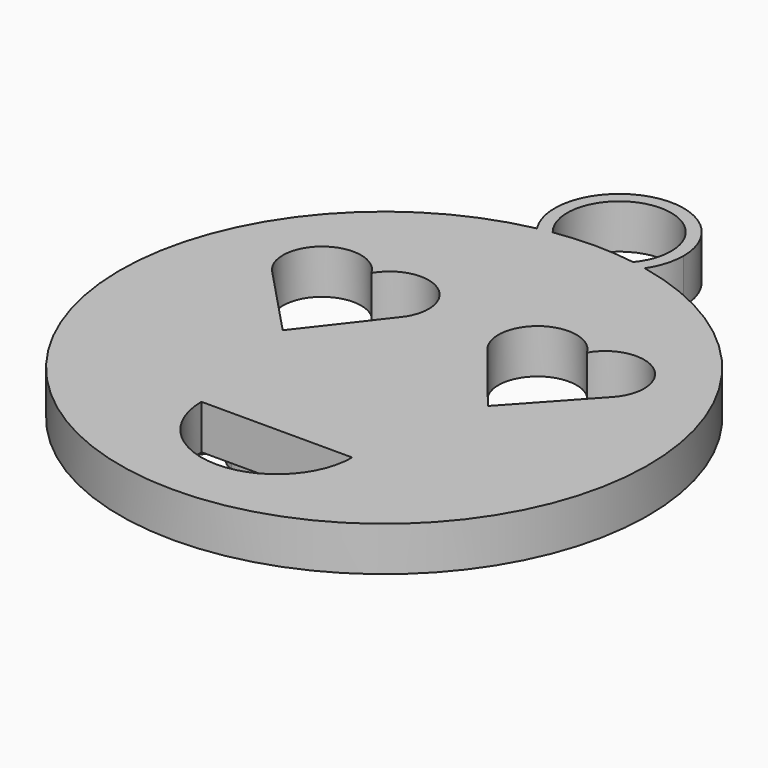
from build123d import *

# Parameters (mm, degrees)
F0_R     = 31.75
F1_DEPTH = 5.334
F2_DEPTH = 9.7028
F4_DEPTH = 5.334
F6_DEPTH = 1.524


with BuildPart() as f1:
    # F0 (on Top) → F1 (new body)
    with BuildSketch(Plane.XY):
        Circle(F0_R)
        with BuildLine():
            ThreePointArc((-9.0672595882, -16.1271095276), (0, -7.0598499394), (9.0672595882, -16.1271095276))
            ThreePointArc((9.0672595882, -16.1271095276), (0, -25.1943691158), (-9.0672595882, -16.1271095276))
        make_face(mode=Mode.SUBTRACT)
        with BuildLine():
            ThreePointArc((-20.4319821381, 8.70917251), (-19.8307143753, 15.7022049417), (-12.954, 14.2969203039))
            ThreePointArc((-12.954, 14.2969203039), (-7.6685531121, 16.4754738016), (-4.191, 11.938))
            ThreePointArc((-4.191, 11.938), (-4.4439261782, 10.4171355842), (-5.1754769403, 9.0599938431))
            Line((-5.1754769403, 9.0599938431), (-12.19514478, 0))
            Line((-12.19514478, 0), (-20.4319821381, 8.70917251))
        make_face(mode=Mode.SUBTRACT)
        with BuildLine():
            ThreePointArc((21.717, 11.938), (21.3983903358, 10.2371821067), (20.4857671818, 8.7670077621))
            Line((20.4857671818, 8.7670077621), (12.4690486118, 0))
            Line((12.4690486118, 0), (5.2299045965, 8.9910859128))
            ThreePointArc((5.2299045965, 8.9910859128), (6.229407138, 15.8112217369), (12.954, 14.2969203039))
            ThreePointArc((12.954, 14.2969203039), (18.2394468879, 16.4754738016), (21.717, 11.938))
        make_face(mode=Mode.SUBTRACT)
        with BuildLine():
            ThreePointArc((-5.1754769403, 9.0599938431), (-9.2028834666, 7.2494282626), (-12.954, 9.5790796961))
            ThreePointArc((-12.954, 9.5790796961), (-16.4750309094, 7.2704754348), (-20.4319821381, 8.70917251))
            Line((-20.4319821381, 8.70917251), (-12.19514478, 0))
            Line((-12.19514478, 0), (-5.1754769403, 9.0599938431))
        make_face()
        with BuildLine():
            ThreePointArc((-12.954, 9.5790796961), (-13.589, 11.938), (-12.954, 14.2969203039))
            ThreePointArc((-12.954, 14.2969203039), (-19.8307143753, 15.7022049417), (-20.4319821381, 8.70917251))
            ThreePointArc((-20.4319821381, 8.70917251), (-16.4750309094, 7.2704754348), (-12.954, 9.5790796961))
        make_face()
        with BuildLine():
            ThreePointArc((5.2299045965, 8.9910859128), (9.2466775898, 7.2525563607), (12.954, 9.5790796961))
            ThreePointArc((12.954, 9.5790796961), (12.319, 11.938), (12.954, 14.2969203039))
            ThreePointArc((12.954, 14.2969203039), (6.229407138, 15.8112217369), (5.2299045965, 8.9910859128))
        make_face()
        with BuildLine():
            Line((12.4690486118, 0), (20.4857671818, 8.7670077621))
            ThreePointArc((20.4857671818, 8.7670077621), (16.5142752737, 7.2660772267), (12.954, 9.5790796961))
            ThreePointArc((12.954, 9.5790796961), (9.2466775898, 7.2525563607), (5.2299045965, 8.9910859128))
            Line((5.2299045965, 8.9910859128), (12.4690486118, 0))
        make_face()
        with BuildLine():
            ThreePointArc((-12.954, 14.2969203039), (-12.4805261984, 13.1594468879), (-12.319, 11.938))
            ThreePointArc((-12.319, 11.938), (-12.4805261984, 10.7165531121), (-12.954, 9.5790796961))
            ThreePointArc((-12.954, 9.5790796961), (-9.2028834666, 7.2494282626), (-5.1754769403, 9.0599938431))
            ThreePointArc((-5.1754769403, 9.0599938431), (-4.4439261782, 10.4171355842), (-4.191, 11.938))
            ThreePointArc((-4.191, 11.938), (-7.6685531121, 16.4754738016), (-12.954, 14.2969203039))
        make_face()
        with BuildLine():
            ThreePointArc((-12.954, 9.5790796961), (-12.4805261984, 10.7165531121), (-12.319, 11.938))
            ThreePointArc((-12.319, 11.938), (-12.4805261984, 13.1594468879), (-12.954, 14.2969203039))
            ThreePointArc((-12.954, 14.2969203039), (-13.589, 11.938), (-12.954, 9.5790796961))
        make_face()
        with BuildLine():
            ThreePointArc((12.954, 9.5790796961), (16.5142752737, 7.2660772267), (20.4857671818, 8.7670077621))
            ThreePointArc((20.4857671818, 8.7670077621), (21.3983903358, 10.2371821067), (21.717, 11.938))
            ThreePointArc((21.717, 11.938), (18.2394468879, 16.4754738016), (12.954, 14.2969203039))
            ThreePointArc((12.954, 14.2969203039), (13.4274738016, 13.1594468879), (13.589, 11.938))
            ThreePointArc((13.589, 11.938), (13.4274738016, 10.7165531121), (12.954, 9.5790796961))
        make_face()
        with BuildLine():
            ThreePointArc((12.954, 14.2969203039), (12.319, 11.938), (12.954, 9.5790796961))
            ThreePointArc((12.954, 9.5790796961), (13.4274738016, 10.7165531121), (13.589, 11.938))
            ThreePointArc((13.589, 11.938), (13.4274738016, 13.1594468879), (12.954, 14.2969203039))
        make_face()
        with BuildLine():
            Line((-9.0672595882, -16.1271095276), (9.0672595882, -16.1271095276))
            ThreePointArc((9.0672595882, -16.1271095276), (0, -7.0598499394), (-9.0672595882, -16.1271095276))
        make_face()
        with BuildLine():
            ThreePointArc((-9.0672595882, -16.1271095276), (0, -25.1943691158), (9.0672595882, -16.1271095276))
            Line((9.0672595882, -16.1271095276), (-9.0672595882, -16.1271095276))
        make_face()
    extrude(amount=F1_DEPTH)

    # F0 (on Top) → F2 (cut)
    with BuildSketch(Plane.XY):
        with BuildLine():
            ThreePointArc((12.954, 9.5790796961), (16.5142752737, 7.2660772267), (20.4857671818, 8.7670077621))
            ThreePointArc((20.4857671818, 8.7670077621), (21.3983903358, 10.2371821067), (21.717, 11.938))
            ThreePointArc((21.717, 11.938), (18.2394468879, 16.4754738016), (12.954, 14.2969203039))
            ThreePointArc((12.954, 14.2969203039), (13.4274738016, 13.1594468879), (13.589, 11.938))
            ThreePointArc((13.589, 11.938), (13.4274738016, 10.7165531121), (12.954, 9.5790796961))
        make_face()
        with BuildLine():
            Line((12.4690486118, 0), (20.4857671818, 8.7670077621))
            ThreePointArc((20.4857671818, 8.7670077621), (16.5142752737, 7.2660772267), (12.954, 9.5790796961))
            ThreePointArc((12.954, 9.5790796961), (9.2466775898, 7.2525563607), (5.2299045965, 8.9910859128))
            Line((5.2299045965, 8.9910859128), (12.4690486118, 0))
        make_face()
        with BuildLine():
            ThreePointArc((-12.954, 14.2969203039), (-12.4805261984, 13.1594468879), (-12.319, 11.938))
            ThreePointArc((-12.319, 11.938), (-12.4805261984, 10.7165531121), (-12.954, 9.5790796961))
            ThreePointArc((-12.954, 9.5790796961), (-9.2028834666, 7.2494282626), (-5.1754769403, 9.0599938431))
            ThreePointArc((-5.1754769403, 9.0599938431), (-4.4439261782, 10.4171355842), (-4.191, 11.938))
            ThreePointArc((-4.191, 11.938), (-7.6685531121, 16.4754738016), (-12.954, 14.2969203039))
        make_face()
        with BuildLine():
            ThreePointArc((-12.954, 9.5790796961), (-13.589, 11.938), (-12.954, 14.2969203039))
            ThreePointArc((-12.954, 14.2969203039), (-19.8307143753, 15.7022049417), (-20.4319821381, 8.70917251))
            ThreePointArc((-20.4319821381, 8.70917251), (-16.4750309094, 7.2704754348), (-12.954, 9.5790796961))
        make_face()
        with BuildLine():
            ThreePointArc((-5.1754769403, 9.0599938431), (-9.2028834666, 7.2494282626), (-12.954, 9.5790796961))
            ThreePointArc((-12.954, 9.5790796961), (-16.4750309094, 7.2704754348), (-20.4319821381, 8.70917251))
            Line((-20.4319821381, 8.70917251), (-12.19514478, 0))
            Line((-12.19514478, 0), (-5.1754769403, 9.0599938431))
        make_face()
        with BuildLine():
            ThreePointArc((-9.0672595882, -16.1271095276), (0, -25.1943691158), (9.0672595882, -16.1271095276))
            Line((9.0672595882, -16.1271095276), (-9.0672595882, -16.1271095276))
        make_face()
        with BuildLine():
            ThreePointArc((5.2299045965, 8.9910859128), (9.2466775898, 7.2525563607), (12.954, 9.5790796961))
            ThreePointArc((12.954, 9.5790796961), (12.319, 11.938), (12.954, 14.2969203039))
            ThreePointArc((12.954, 14.2969203039), (6.229407138, 15.8112217369), (5.2299045965, 8.9910859128))
        make_face()
        with BuildLine():
            ThreePointArc((12.954, 14.2969203039), (12.319, 11.938), (12.954, 9.5790796961))
            ThreePointArc((12.954, 9.5790796961), (13.4274738016, 10.7165531121), (13.589, 11.938))
            ThreePointArc((13.589, 11.938), (13.4274738016, 13.1594468879), (12.954, 14.2969203039))
        make_face()
        with BuildLine():
            ThreePointArc((-12.954, 9.5790796961), (-12.4805261984, 10.7165531121), (-12.319, 11.938))
            ThreePointArc((-12.319, 11.938), (-12.4805261984, 13.1594468879), (-12.954, 14.2969203039))
            ThreePointArc((-12.954, 14.2969203039), (-13.589, 11.938), (-12.954, 9.5790796961))
        make_face()
    extrude(amount=F2_DEPTH, mode=Mode.SUBTRACT)

    # F3 (on face) → F4 (join)
    with BuildSketch(Plane(origin=(0, 0, 0), x_dir=(1, 0, 0), z_dir=(0, 0, -1))):
        with BuildLine():
            ThreePointArc((4.8364177691, -31.3794767828), (5.8859454132, -33.2363835107), (6.249919, -35.3380814195))
            ThreePointArc((6.249919, -35.3380814195), (-2.1016979088, -41.2240268326), (-4.8364177691, -31.3794767828))
            ThreePointArc((-4.8364177691, -31.3794767828), (-5.6607559475, -31.2412922605), (-6.4811709913, -31.0814562494))
            ThreePointArc((-6.4811709913, -31.0814562494), (-2.2214262463, -42.7670585153), (7.7539947935, -35.3380814195))
            ThreePointArc((7.7539947935, -35.3380814195), (7.4289770958, -33.1166551732), (6.4811709913, -31.0814562494))
            ThreePointArc((6.4811709913, -31.0814562494), (5.6607559475, -31.2412922605), (4.8364177691, -31.3794767828))
        make_face()
    extrude(amount=-F4_DEPTH)

    # F5 (on face) → F6 (join)
    with BuildSketch(Plane(origin=(0, 0, 0), x_dir=(1, 0, 0), z_dir=(0, 0, -1))):
        with BuildLine():
            Line((14.3987273089, 4.313420255), (16.6027551747, 14.7488641087))
            Line((16.6027551747, 14.7488641087), (15.3899688569, 14.7488641087))
            Line((15.3899688569, 14.7488641087), (14.4695302766, 10.4093273781))
            Line((14.4695302766, 10.4093273781), (12.6697645168, 10.4093273781))
            Line((12.6697645168, 10.4093273781), (11.1783342615, 14.7488641087))
            Line((11.1783342615, 14.7488641087), (9.8513496086, 14.7488641087))
            Line((9.8513496086, 14.7488641087), (11.5574727337, 10.1306834407))
            add(Edge.make_bspline(
                [(8.9309110284, 6.9262781601), (8.9309110284, 9.4089499634), (11.5574727337, 10.1306834407)],
                knots=[0, 0, 0, 1, 1, 1], degree=2))
            add(Edge.make_bspline(
                [(12.1147606086, 4.313420255), (8.9309110284, 4.313420255), (8.9309110284, 6.9262781601)],
                knots=[0, 0, 0, 1, 1, 1], degree=2))
            Line((12.1147606086, 4.313420255), (14.3987273089, 4.313420255))
        make_face()
        with BuildLine():
            add(Edge.make_bspline(
                [(13.4189055945, 5.3777487373), (14.1474909719, 8.9041933226), (14.2479855067, 9.3678385628)],
                knots=[0, 0, 0, 1, 1, 1], degree=2))
            Line((13.4189055945, 5.3777487373), (12.2358108437, 5.3777487373))
            add(Edge.make_bspline(
                [(10.6690096873, 5.7660230764), (11.1509266611, 5.3777487373), (12.2358108437, 5.3777487373)],
                knots=[0, 0, 0, 1, 1, 1], degree=2))
            add(Edge.make_bspline(
                [(10.1870927135, 7.0199207948), (10.1870927135, 6.1542974154), (10.6690096873, 5.7660230764)],
                knots=[0, 0, 0, 1, 1, 1], degree=2))
            add(Edge.make_bspline(
                [(10.9293818911, 8.7603034205), (10.1870927135, 8.1527682782), (10.1870927135, 7.0199207948)],
                knots=[0, 0, 0, 1, 1, 1], degree=2))
            add(Edge.make_bspline(
                [(13.048902989, 9.3678385628), (11.6716710687, 9.3678385628), (10.9293818911, 8.7603034205)],
                knots=[0, 0, 0, 1, 1, 1], degree=2))
            Line((13.048902989, 9.3678385628), (14.2479855067, 9.3678385628))
        make_face(mode=Mode.SUBTRACT)
        with BuildLine():
            add(Edge.make_bspline(
                [(-11.3403196236, 14.7488641087), (-10.9020533145, 14.5738276854), (-10.5924363259, 14.1858663171)],
                knots=[0.4511697237, 0.4511697237, 0.4511697237, 1, 1, 1], degree=2))
            Line((-11.3403196236, 14.7488641087), (-12.9746946592, 14.7488641087))
            add(Edge.make_bspline(
                [(-14.8406143885, 13.2574338534), (-13.9409879972, 14.4076704537), (-12.9746946592, 14.7488641087)],
                knots=[0, 0, 0, 0.7033708935, 0.7033708935, 0.7033708935], degree=2))
            Line((-14.8406143885, 13.2574338534), (-14.897713556, 13.2574338534))
            Line((-14.897713556, 13.2574338534), (-14.7104282865, 14.7488641087))
            Line((-14.7104282865, 14.7488641087), (-15.6605584339, 14.7488641087))
            Line((-15.6605584339, 14.7488641087), (-17.3232861917, 6.9262781601))
            Line((-17.3232861917, 6.9262781601), (-16.4165514117, 6.9262781601))
            Line((-16.4165514117, 6.9262781601), (-15.9392023713, 8.1527682782))
            Line((-15.9392023713, 8.1527682782), (-15.8592635368, 8.1527682782))
            add(Edge.make_bspline(
                [(-15.0598751917, 7.1364030966), (-15.5737676993, 7.4904179351), (-15.8592635368, 8.1527682782)],
                knots=[0, 0, 0, 1, 1, 1], degree=2))
            add(Edge.make_bspline(
                [(-13.8904842411, 6.782388258), (-14.5459826841, 6.782388258), (-15.0598751917, 7.1364030966)],
                knots=[0, 0, 0, 1, 1, 1], degree=2))
            add(Edge.make_bspline(
                [(-11.9342667623, 7.5041217353), (-12.8261557588, 6.782388258), (-13.8904842411, 6.782388258)],
                knots=[0, 0, 0, 1, 1, 1], degree=2))
            add(Edge.make_bspline(
                [(-10.5353371584, 9.495740698), (-11.0423777658, 8.2258552126), (-11.9342667623, 7.5041217353)],
                knots=[0, 0, 0, 1, 1, 1], degree=2))
            add(Edge.make_bspline(
                [(-10.0282965509, 12.2502045386), (-10.0282965509, 10.7656261834), (-10.5353371584, 9.495740698)],
                knots=[0, 0, 0, 1, 1, 1], degree=2))
            add(Edge.make_bspline(
                [(-10.5924363259, 14.1858663171), (-10.0282965509, 13.4789786233), (-10.0282965509, 12.2502045386)],
                knots=[0, 0, 0, 1, 1, 1], degree=2))
        make_face()
        with BuildLine():
            add(Edge.make_bspline(
                [(-12.5338080211, 13.8992284962), (-13.2258499313, 13.8992284962), (-13.9110399414, 13.2391621198)],
                knots=[0, 0, 0, 1, 1, 1], degree=2))
            add(Edge.make_bspline(
                [(-11.5928137406, 13.4961083736), (-11.9285568456, 13.8992284962), (-12.5338080211, 13.8992284962)],
                knots=[0, 0, 0, 1, 1, 1], degree=2))
            add(Edge.make_bspline(
                [(-11.2570706357, 12.2798961057), (-11.2570706357, 13.092988251), (-11.5928137406, 13.4961083736)],
                knots=[0, 0, 0, 1, 1, 1], degree=2))
            add(Edge.make_bspline(
                [(-11.6213633244, 10.0667323731), (-11.2570706357, 11.1150730885), (-11.2570706357, 12.2798961057)],
                knots=[0, 0, 0, 1, 1, 1], degree=2))
            add(Edge.make_bspline(
                [(-12.6240247058, 8.4040046152), (-11.9856560131, 9.0183916576), (-11.6213633244, 10.0667323731)],
                knots=[0, 0, 0, 1, 1, 1], degree=2))
            add(Edge.make_bspline(
                [(-14.0046825761, 7.7896175729), (-13.2623933985, 7.7896175729), (-12.6240247058, 8.4040046152)],
                knots=[0, 0, 0, 1, 1, 1], degree=2))
            add(Edge.make_bspline(
                [(-15.0530232916, 8.2247132293), (-14.653329119, 7.7896175729), (-14.0046825761, 7.7896175729)],
                knots=[0, 0, 0, 1, 1, 1], degree=2))
            add(Edge.make_bspline(
                [(-15.4527174641, 9.3952461632), (-15.4527174641, 8.6598088857), (-15.0530232916, 8.2247132293)],
                knots=[0, 0, 0, 1, 1, 1], degree=2))
            add(Edge.make_bspline(
                [(-15.0244737078, 11.5193351945), (-15.4527174641, 10.4595746455), (-15.4527174641, 9.3952461632)],
                knots=[0, 0, 0, 1, 1, 1], degree=2))
            add(Edge.make_bspline(
                [(-13.9110399414, 13.2391621198), (-14.5962299515, 12.5790957434), (-15.0244737078, 11.5193351945)],
                knots=[0, 0, 0, 1, 1, 1], degree=2))
        make_face(mode=Mode.SUBTRACT)
        with BuildLine():
            Line((-12.9746946592, 14.7488641087), (-11.3403196236, 14.7488641087))
            add(Edge.make_bspline(
                [(-12.1478176488, 14.8927540108), (-11.7005994735, 14.8927540108), (-11.3403196236, 14.7488641087)],
                knots=[0, 0, 0, 0.4511697237, 0.4511697237, 0.4511697237], degree=2))
            add(Edge.make_bspline(
                [(-12.9746946592, 14.7488641087), (-12.5671845788, 14.8927540108), (-12.1478176488, 14.8927540108)],
                knots=[0.7033708935, 0.7033708935, 0.7033708935, 1, 1, 1], degree=2))
        make_face()
        with BuildLine():
            add(Edge.make_bspline(
                [(-4.0688255708, 14.7488641087), (-3.572604757, 14.6263216837), (-3.1261491826, 14.3994172035)],
                knots=[0.5400617249, 0.5400617249, 0.5400617249, 1, 1, 1], degree=2))
            Line((-4.0688255708, 14.7488641087), (-6.5309450994, 14.7488641087))
            add(Edge.make_bspline(
                [(-7.5262110307, 14.2680891183), (-7.1158302924, 14.5929491239), (-6.5309450994, 14.7488641087)],
                knots=[0, 0, 0, 0.5200548477, 0.5200548477, 0.5200548477], degree=2))
            add(Edge.make_bspline(
                [(-8.3153215257, 12.528848476), (-8.3153215257, 13.6434242257), (-7.5262110307, 14.2680891183)],
                knots=[0, 0, 0, 1, 1, 1], degree=2))
            add(Edge.make_bspline(
                [(-8.1508759232, 11.7328860809), (-8.3153215257, 12.0857589361), (-8.3153215257, 12.528848476)],
                knots=[0, 0, 0, 1, 1, 1], degree=2))
            add(Edge.make_bspline(
                [(-7.6552551493, 11.0728197045), (-7.9864303208, 11.3800132257), (-8.1508759232, 11.7328860809)],
                knots=[0, 0, 0, 1, 1, 1], degree=2))
            add(Edge.make_bspline(
                [(-6.5589511331, 10.3385244104), (-7.3240799777, 10.7656261834), (-7.6552551493, 11.0728197045)],
                knots=[0, 0, 0, 1, 1, 1], degree=2))
            add(Edge.make_bspline(
                [(-5.5128943844, 9.6030871329), (-5.7664146881, 9.8885829704), (-6.5589511331, 10.3385244104)],
                knots=[0, 0, 0, 1, 1, 1], degree=2))
            add(Edge.make_bspline(
                [(-5.2593740807, 8.9178971228), (-5.2593740807, 9.3175912954), (-5.5128943844, 9.6030871329)],
                knots=[0, 0, 0, 1, 1, 1], degree=2))
            add(Edge.make_bspline(
                [(-5.6385125529, 8.1139408443), (-5.2593740807, 8.4245603155), (-5.2593740807, 8.9178971228)],
                knots=[0, 0, 0, 1, 1, 1], degree=2))
            add(Edge.make_bspline(
                [(-6.6800013682, 7.8033213731), (-6.0176510252, 7.8033213731), (-5.6385125529, 8.1139408443)],
                knots=[0, 0, 0, 1, 1, 1], degree=2))
            add(Edge.make_bspline(
                [(-8.2513704581, 8.1116568776), (-7.5296369808, 7.8033213731), (-6.6800013682, 7.8033213731)],
                knots=[0, 0, 0, 1, 1, 1], degree=2))
            Line((-8.2513704581, 8.1116568776), (-8.6510646306, 8.2898062802))
            Line((-8.6510646306, 8.2898062802), (-9.037055003, 7.3122685325))
            add(Edge.make_bspline(
                [(-6.6800013682, 6.782388258), (-7.9019235529, 6.782388258), (-9.037055003, 7.3122685325)],
                knots=[0, 0, 0, 1, 1, 1], degree=2))
            add(Edge.make_bspline(
                [(-4.7820250403, 7.3864974502), (-5.5037585176, 6.782388258), (-6.6800013682, 6.782388258)],
                knots=[0, 0, 0, 1, 1, 1], degree=2))
            add(Edge.make_bspline(
                [(-4.060291563, 8.9749962903), (-4.060291563, 7.9906066425), (-4.7820250403, 7.3864974502)],
                knots=[0, 0, 0, 1, 1, 1], degree=2))
            add(Edge.make_bspline(
                [(-4.4462819353, 10.1592330244), (-4.060291563, 9.6601863004), (-4.060291563, 8.9749962903)],
                knots=[0, 0, 0, 1, 1, 1], degree=2))
            add(Edge.make_bspline(
                [(-5.759562788, 11.1790241561), (-4.8322723077, 10.6582797484), (-4.4462819353, 10.1592330244)],
                knots=[0, 0, 0, 1, 1, 1], degree=2))
            add(Edge.make_bspline(
                [(-6.8375950706, 11.9441530007), (-6.5886427002, 11.6655090633), (-5.759562788, 11.1790241561)],
                knots=[0, 0, 0, 1, 1, 1], degree=2))
            add(Edge.make_bspline(
                [(-7.0865474409, 12.6293430108), (-7.0865474409, 12.2227969382), (-6.8375950706, 11.9441530007)],
                knots=[0, 0, 0, 1, 1, 1], degree=2))
            add(Edge.make_bspline(
                [(-6.6297541008, 13.5429296909), (-7.0865474409, 13.1866308857), (-7.0865474409, 12.6293430108)],
                knots=[0, 0, 0, 1, 1, 1], degree=2))
            add(Edge.make_bspline(
                [(-5.2753618476, 13.8992284962), (-6.1729607608, 13.8992284962), (-6.6297541008, 13.5429296909)],
                knots=[0, 0, 0, 1, 1, 1], degree=2))
            add(Edge.make_bspline(
                [(-4.2041814651, 13.7347828938), (-4.7820250403, 13.8992284962), (-5.2753618476, 13.8992284962)],
                knots=[0, 0, 0, 1, 1, 1], degree=2))
            add(Edge.make_bspline(
                [(-3.1261491826, 13.2711376536), (-3.6263378899, 13.5703372913), (-4.2041814651, 13.7347828938)],
                knots=[0, 0, 0, 1, 1, 1], degree=2))
            Line((-3.1261491826, 13.2711376536), (-3.1261491826, 14.3994172035))
        make_face()
        with BuildLine():
            Line((-6.5309450994, 14.7488641087), (-4.0688255708, 14.7488641087))
            add(Edge.make_bspline(
                [(-5.302769448, 14.8927540108), (-4.6514904262, 14.8927540108), (-4.0688255708, 14.7488641087)],
                knots=[0, 0, 0, 0.5400617249, 0.5400617249, 0.5400617249], degree=2))
            add(Edge.make_bspline(
                [(-6.5309450994, 14.7488641087), (-5.9911697003, 14.8927540108), (-5.302769448, 14.8927540108)],
                knots=[0.5200548477, 0.5200548477, 0.5200548477, 1, 1, 1], degree=2))
        make_face()
        Polygon((-1.4497176245, 6.9262781601), (0.2221460001, 14.7488641087), (-0.9769365176, 14.7488641087), (-2.6488001422, 6.9262781601), align=None)
        with BuildLine():
            add(Edge.make_bspline(
                [(6.8903025783, 14.7488641087), (7.3285688874, 14.5738276854), (7.638185876, 14.1858663171)],
                knots=[0.4511697237, 0.4511697237, 0.4511697237, 1, 1, 1], degree=2))
            Line((6.8903025783, 14.7488641087), (5.2559275426, 14.7488641087))
            add(Edge.make_bspline(
                [(3.3900078134, 13.2574338534), (4.2896342047, 14.4076704537), (5.2559275426, 14.7488641087)],
                knots=[0, 0, 0, 0.7033708935, 0.7033708935, 0.7033708935], degree=2))
            Line((3.3900078134, 13.2574338534), (3.3329086459, 13.2574338534))
            Line((3.3329086459, 13.2574338534), (3.5201939153, 14.7488641087))
            Line((3.5201939153, 14.7488641087), (2.570063768, 14.7488641087))
            Line((2.570063768, 14.7488641087), (0.9073360102, 6.9262781601))
            Line((0.9073360102, 6.9262781601), (1.8140707902, 6.9262781601))
            Line((1.8140707902, 6.9262781601), (2.2914198306, 8.1527682782))
            Line((2.2914198306, 8.1527682782), (2.3713586651, 8.1527682782))
            add(Edge.make_bspline(
                [(3.1707470102, 7.1364030966), (2.6568545026, 7.4904179351), (2.3713586651, 8.1527682782)],
                knots=[0, 0, 0, 1, 1, 1], degree=2))
            add(Edge.make_bspline(
                [(4.3401379608, 6.782388258), (3.6846395178, 6.782388258), (3.1707470102, 7.1364030966)],
                knots=[0, 0, 0, 1, 1, 1], degree=2))
            add(Edge.make_bspline(
                [(6.2963554396, 7.5041217353), (5.4044664431, 6.782388258), (4.3401379608, 6.782388258)],
                knots=[0, 0, 0, 1, 1, 1], degree=2))
            add(Edge.make_bspline(
                [(7.6952850435, 9.495740698), (7.188244436, 8.2258552126), (6.2963554396, 7.5041217353)],
                knots=[0, 0, 0, 1, 1, 1], degree=2))
            add(Edge.make_bspline(
                [(8.202325651, 12.2502045386), (8.202325651, 10.7656261834), (7.6952850435, 9.495740698)],
                knots=[0, 0, 0, 1, 1, 1], degree=2))
            add(Edge.make_bspline(
                [(7.638185876, 14.1858663171), (8.202325651, 13.4789786233), (8.202325651, 12.2502045386)],
                knots=[0, 0, 0, 1, 1, 1], degree=2))
        make_face()
        with BuildLine():
            add(Edge.make_bspline(
                [(5.6968141807, 13.8992284962), (5.0047722705, 13.8992284962), (4.3195822605, 13.2391621198)],
                knots=[0, 0, 0, 1, 1, 1], degree=2))
            add(Edge.make_bspline(
                [(6.6378084613, 13.4961083736), (6.3020653563, 13.8992284962), (5.6968141807, 13.8992284962)],
                knots=[0, 0, 0, 1, 1, 1], degree=2))
            add(Edge.make_bspline(
                [(6.9735515662, 12.2798961057), (6.9735515662, 13.092988251), (6.6378084613, 13.4961083736)],
                knots=[0, 0, 0, 1, 1, 1], degree=2))
            add(Edge.make_bspline(
                [(6.6092588775, 10.0667323731), (6.9735515662, 11.1150730885), (6.9735515662, 12.2798961057)],
                knots=[0, 0, 0, 1, 1, 1], degree=2))
            add(Edge.make_bspline(
                [(5.6065974961, 8.4040046152), (6.2449661888, 9.0183916576), (6.6092588775, 10.0667323731)],
                knots=[0, 0, 0, 1, 1, 1], degree=2))
            add(Edge.make_bspline(
                [(4.2259396257, 7.7896175729), (4.9682288033, 7.7896175729), (5.6065974961, 8.4040046152)],
                knots=[0, 0, 0, 1, 1, 1], degree=2))
            add(Edge.make_bspline(
                [(3.1775989103, 8.2247132293), (3.5772930828, 7.7896175729), (4.2259396257, 7.7896175729)],
                knots=[0, 0, 0, 1, 1, 1], degree=2))
            add(Edge.make_bspline(
                [(2.7779047377, 9.3952461632), (2.7779047377, 8.6598088857), (3.1775989103, 8.2247132293)],
                knots=[0, 0, 0, 1, 1, 1], degree=2))
            add(Edge.make_bspline(
                [(3.206148494, 11.5193351945), (2.7779047377, 10.4595746455), (2.7779047377, 9.3952461632)],
                knots=[0, 0, 0, 1, 1, 1], degree=2))
            add(Edge.make_bspline(
                [(4.3195822605, 13.2391621198), (3.6343922504, 12.5790957434), (3.206148494, 11.5193351945)],
                knots=[0, 0, 0, 1, 1, 1], degree=2))
        make_face(mode=Mode.SUBTRACT)
        with BuildLine():
            Line((5.2559275426, 14.7488641087), (6.8903025783, 14.7488641087))
            add(Edge.make_bspline(
                [(6.0828045531, 14.8927540108), (6.5300227284, 14.8927540108), (6.8903025783, 14.7488641087)],
                knots=[0, 0, 0, 0.4511697237, 0.4511697237, 0.4511697237], degree=2))
            add(Edge.make_bspline(
                [(5.2559275426, 14.7488641087), (5.6634376231, 14.8927540108), (6.0828045531, 14.8927540108)],
                knots=[0.7033708935, 0.7033708935, 0.7033708935, 1, 1, 1], degree=2))
        make_face()
        Polygon((14.4695302766, 10.4093273781), (15.3899688569, 14.7488641087), (11.1783342615, 14.7488641087), (12.6697645168, 10.4093273781), align=None)
        with BuildLine():
            add(Edge.make_bspline(
                [(3.3900078134, 13.2574338534), (4.2896342047, 14.4076704537), (5.2559275426, 14.7488641087)],
                knots=[0, 0, 0, 0.7033708935, 0.7033708935, 0.7033708935], degree=2))
            Line((5.2559275426, 14.7488641087), (3.5201939153, 14.7488641087))
            Line((3.5201939153, 14.7488641087), (3.3329086459, 13.2574338534))
            Line((3.3329086459, 13.2574338534), (3.3900078134, 13.2574338534))
        make_face()
        with BuildLine():
            add(Edge.make_bspline(
                [(-14.8406143885, 13.2574338534), (-13.9409879972, 14.4076704537), (-12.9746946592, 14.7488641087)],
                knots=[0, 0, 0, 0.7033708935, 0.7033708935, 0.7033708935], degree=2))
            Line((-12.9746946592, 14.7488641087), (-14.7104282865, 14.7488641087))
            Line((-14.7104282865, 14.7488641087), (-14.897713556, 13.2574338534))
            Line((-14.897713556, 13.2574338534), (-14.8406143885, 13.2574338534))
        make_face()
        with BuildLine():
            add(Edge.make_bspline(
                [(-1.7854607295, 4.9278072974), (-1.7854607295, 4.5281131248), (-2.0138573995, 4.2745928211)],
                knots=[0, 0, 0, 1, 1, 1], degree=2))
            add(Edge.make_bspline(
                [(-1.9704620322, 5.4245700547), (-1.7854607295, 5.2498466021), (-1.7854607295, 4.9278072974)],
                knots=[0, 0, 0, 1, 1, 1], degree=2))
            add(Edge.make_bspline(
                [(-2.4409591725, 5.5992935073), (-2.1554633349, 5.5992935073), (-1.9704620322, 5.4245700547)],
                knots=[0, 0, 0, 1, 1, 1], degree=2))
            add(Edge.make_bspline(
                [(-2.9948210973, 5.3275014699), (-2.7561465771, 5.5992935073), (-2.4409591725, 5.5992935073)],
                knots=[0, 0, 0, 1, 1, 1], degree=2))
            add(Edge.make_bspline(
                [(-3.2334956175, 4.6628671601), (-3.2334956175, 5.0557094326), (-2.9948210973, 5.3275014699)],
                knots=[0, 0, 0, 1, 1, 1], degree=2))
            add(Edge.make_bspline(
                [(-2.6054047749, 4.0210725173), (-3.2334956175, 4.0210725173), (-3.2334956175, 4.6628671601)],
                knots=[0, 0, 0, 1, 1, 1], degree=2))
            add(Edge.make_bspline(
                [(-2.0138573995, 4.2745928211), (-2.2422540695, 4.0210725173), (-2.6054047749, 4.0210725173)],
                knots=[0, 0, 0, 1, 1, 1], degree=2))
        make_face()
    extrude(amount=F6_DEPTH)


solid = f1.part
